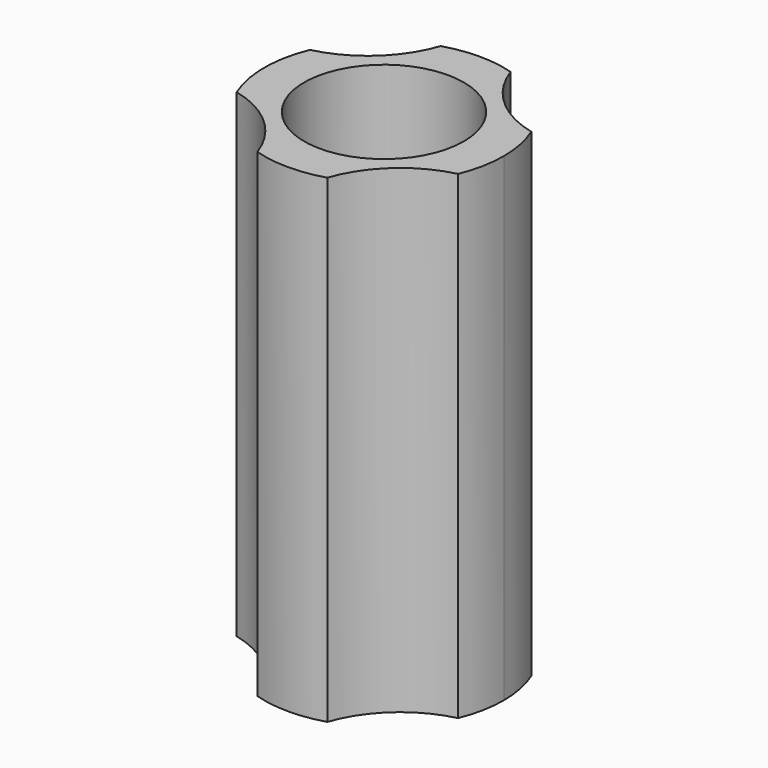
from build123d import *

# Parameters (mm, degrees)
F0_R     = 12.7
F1_DEPTH = 76.2


with BuildPart() as f1:
    # F0 (on Top) → F1 (new body)
    with BuildSketch(Plane.XY):
        with BuildLine():
            ThreePointArc((17.607051, -7.272844), (18.685781, -3.707302), (19.05, 0))
            ThreePointArc((19.05, 0), (18.685781, 3.707302), (17.607051, 7.272844))
            ThreePointArc((17.607051, 7.272844), (10.177085, 11.202116), (5.555008, 18.222085))
            ThreePointArc((5.555008, 18.222085), (0, 19.05), (-5.555008, 18.222085))
            ThreePointArc((-5.555008, 18.222085), (-10.177085, 11.202116), (-17.607051, 7.272844))
            ThreePointArc((-17.607051, 7.272844), (-19.05, 0), (-17.607051, -7.272844))
            ThreePointArc((-17.607051, -7.272844), (-10.177085, -11.202116), (-5.555008, -18.222085))
            ThreePointArc((-5.555008, -18.222085), (0, -19.05), (5.555008, -18.222085))
            ThreePointArc((5.555008, -18.222085), (10.177085, -11.202116), (17.607051, -7.272844))
        make_face()
        Circle(F0_R, mode=Mode.SUBTRACT)
    extrude(amount=F1_DEPTH)


solid = f1.part
